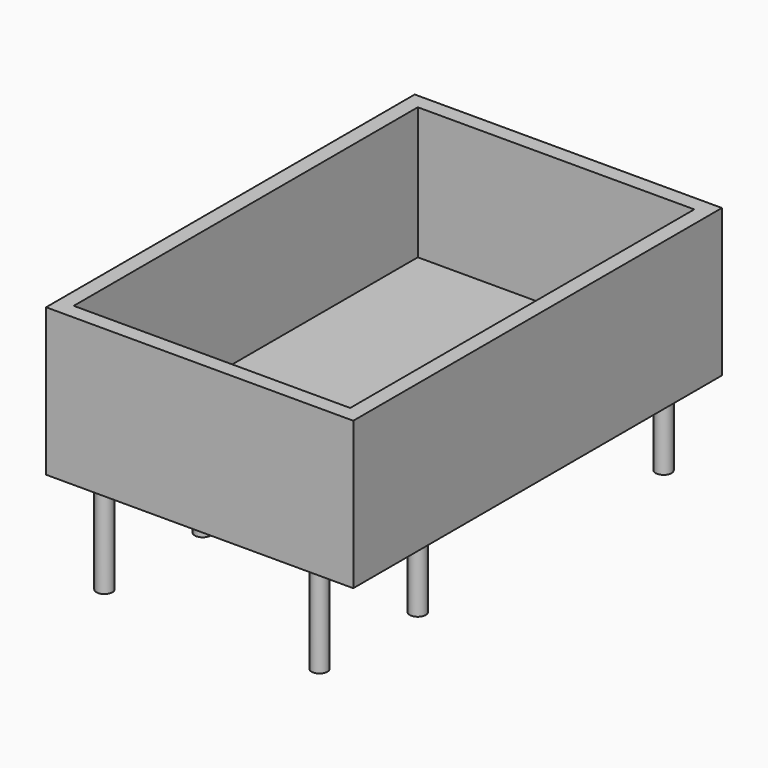
from build123d import *

# Parameters (mm, degrees)
F1_W     = 12.7
F1_H     = 19.05
F2_DEPTH = 6.096
F3_W     = 11.43
F3_H     = 17.78
F4_DEPTH = 5.461
F5_R     = 0.3302
F6_DEPTH = 3.81


with BuildPart() as f2:
    # F1 (on Top) → F2 (new body)
    with BuildSketch(Plane.XY):
        Rectangle(F1_W, F1_H)
    extrude(amount=F2_DEPTH)

    # F3 (on face) → F4 (cut)
    with BuildSketch(Plane.XY.offset(6.096)):
        Rectangle(F3_W, F3_H)
    extrude(amount=-F4_DEPTH, mode=Mode.SUBTRACT)


with BuildPart() as f6:
    # F5 (on face) → F6 (new body)
    with BuildSketch(Plane(origin=(0, 0, 0), x_dir=(1, 0, 0), z_dir=(0, 0, -1))):
        with Locations((4.445, -8.89)):
            Circle(F5_R)
    extrude(amount=F6_DEPTH)


with BuildPart() as f6b:
    # F5 (on face) → F6, piece 2 (new body)
    with BuildSketch(Plane(origin=(0, 0, 0), x_dir=(1, 0, 0), z_dir=(0, 0, -1))):
        with Locations((4.445, 3.81)):
            Circle(F5_R)
    extrude(amount=F6_DEPTH)


with BuildPart() as f6c:
    # F5 (on face) → F6, piece 3 (new body)
    with BuildSketch(Plane(origin=(0, 0, 0), x_dir=(1, 0, 0), z_dir=(0, 0, -1))):
        with Locations((4.445, 8.89)):
            Circle(F5_R)
    extrude(amount=F6_DEPTH)


with BuildPart() as f6d:
    # F5 (on face) → F6, piece 4 (new body)
    with BuildSketch(Plane(origin=(0, 0, 0), x_dir=(1, 0, 0), z_dir=(0, 0, -1))):
        with Locations((-4.445, 8.89)):
            Circle(F5_R)
    extrude(amount=F6_DEPTH)


with BuildPart() as f6e:
    # F5 (on face) → F6, piece 5 (new body)
    with BuildSketch(Plane(origin=(0, 0, 0), x_dir=(1, 0, 0), z_dir=(0, 0, -1))):
        with Locations((-4.445, 3.81)):
            Circle(F5_R)
    extrude(amount=F6_DEPTH)


with BuildPart() as f6f:
    # F5 (on face) → F6, piece 6 (new body)
    with BuildSketch(Plane(origin=(0, 0, 0), x_dir=(1, 0, 0), z_dir=(0, 0, -1))):
        with Locations((-4.445, -8.89)):
            Circle(F5_R)
    extrude(amount=F6_DEPTH)


solid = Compound([f2.part, f6.part, f6b.part, f6c.part, f6d.part, f6e.part, f6f.part])
